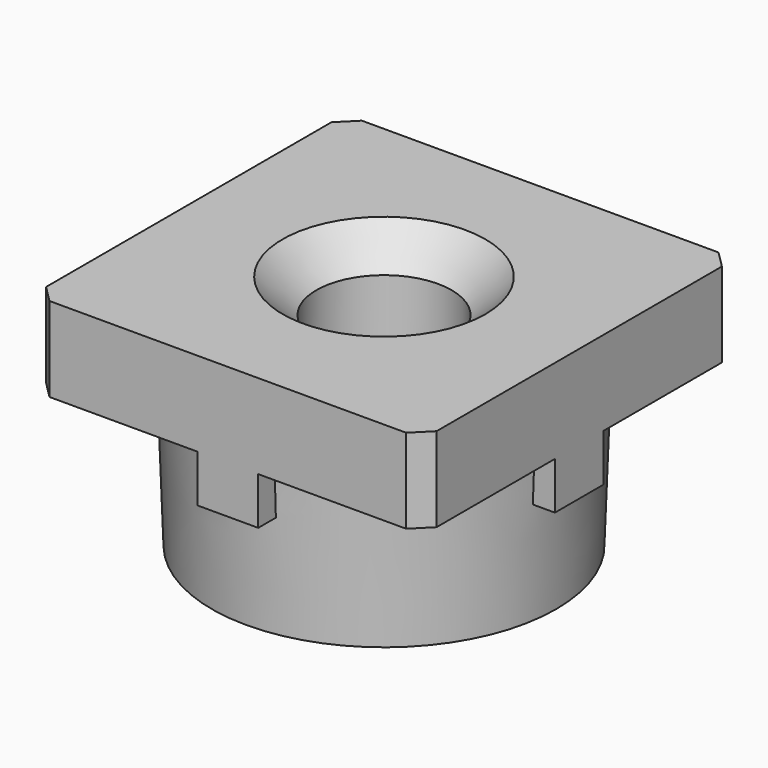
from build123d import *

# Parameters (mm, degrees)
SKETCH011_W           = 23.1
SKETCH011_H           = 23.1
PAD007_DEPTH          = 5
PAD008_DEPTH          = 2.8
POLARPATTERN001_COUNT = 4
SKETCH013_R           = 10.5
PAD009_DEPTH          = 9
PAD009_TAPER          = 2
SKETCH014_R           = 4
POCKET003_DEPTH       = 10
CHAMFER003_SIZE       = 1
CHAMFER_SIZE          = 2


with BuildPart() as part:
    # Sketch011 → Pad007 (new body)
    with BuildSketch(Plane.XY):
        Rectangle(SKETCH011_W, SKETCH011_H)
    extrude(amount=PAD007_DEPTH)

    # Sketch012 → Pad008 (join)
    with BuildSketch(Plane.XY):
        Polygon((0, 11.55), (1.8, 11.55), (1.8, 1.8), (11.55, 1.8), (11.55, 0), (0, 0), align=None)
    pad008 = extrude(amount=-PAD008_DEPTH)

    # PolarPattern001: Pad008 ×4 about axis
    polarpattern001_axis = Axis((0, 0, 0), (0, 0, 1))
    for i in range(1, POLARPATTERN001_COUNT):
        add(pad008.rotate(polarpattern001_axis, i * 360 / POLARPATTERN001_COUNT))

    # Sketch013 → Pad009 (join)
    with BuildSketch(Plane.XY):
        Circle(SKETCH013_R)
    extrude(amount=-PAD009_DEPTH, taper=PAD009_TAPER)

    # Sketch014 → Pocket003 (cut)
    with BuildSketch(Plane.XY.offset(-5)):
        Circle(SKETCH014_R)
    extrude(amount=POCKET003_DEPTH, mode=Mode.SUBTRACT)

    # Chamfer003
    chamfer003_edges = [part.edges().sort_by_distance(p)[0] for p in [
        (-11.55, -11.55, 2.5),
        (11.55, -11.55, 2.5),
        (-11.55, 11.55, 2.5),
        (11.55, 11.55, 2.5),
    ]]
    chamfer(chamfer003_edges, length=CHAMFER003_SIZE)

    # Chamfer
    chamfer_edges = [part.edges().sort_by_distance(p)[0] for p in [
        (-4, 0, 5),
    ]]
    chamfer(chamfer_edges, length=CHAMFER_SIZE)


solid = part.part
